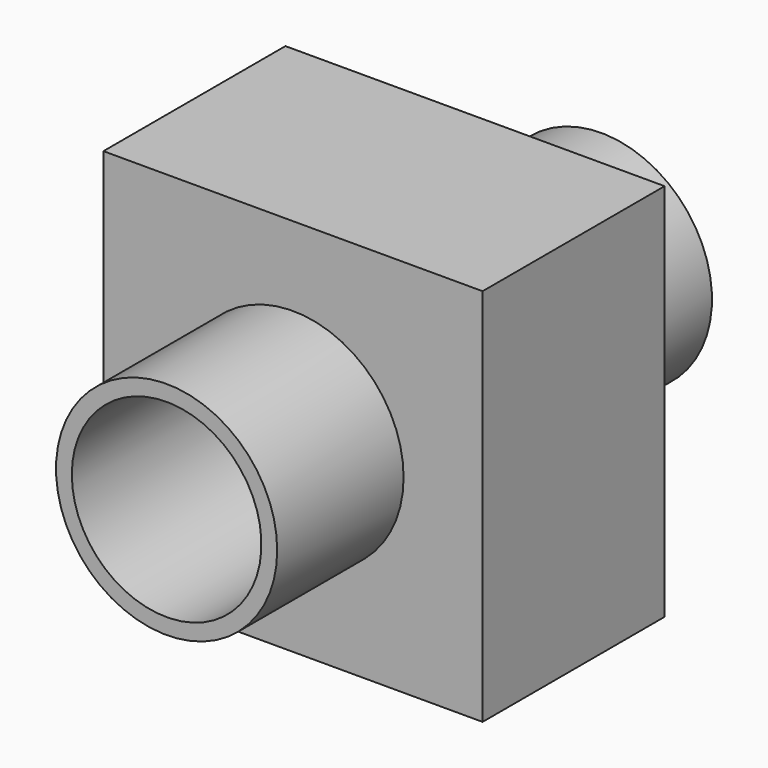
from build123d import *

# Parameters (mm, degrees)
F0_W     = 60
F0_H     = 60
F1_DEPTH = 36
F2_R     = 17.5
F3_DEPTH = 25
F4_R     = 17.5
F5_DEPTH = 25
F7_D     = 30


with BuildPart() as f1:
    # F0 (on Front) → F1 (new body)
    with BuildSketch(Plane.XZ):
        Rectangle(F0_W, F0_H)
    extrude(amount=-F1_DEPTH)

    # F2 (on face) → F3 (join)
    with BuildSketch(Plane.XZ):
        Circle(F2_R)
    extrude(amount=F3_DEPTH)

    # F4 (on face) → F5 (join)
    with BuildSketch(Plane(origin=(0, 36, 0), x_dir=(-1, 0, 0), z_dir=(0, 1, 0))):
        Circle(F4_R)
    extrude(amount=F5_DEPTH)

    # F7 (through all)
    with Locations(Plane.XZ.offset(25)):
        with Locations((0, 0)):
            Hole(F7_D / 2)


solid = f1.part
